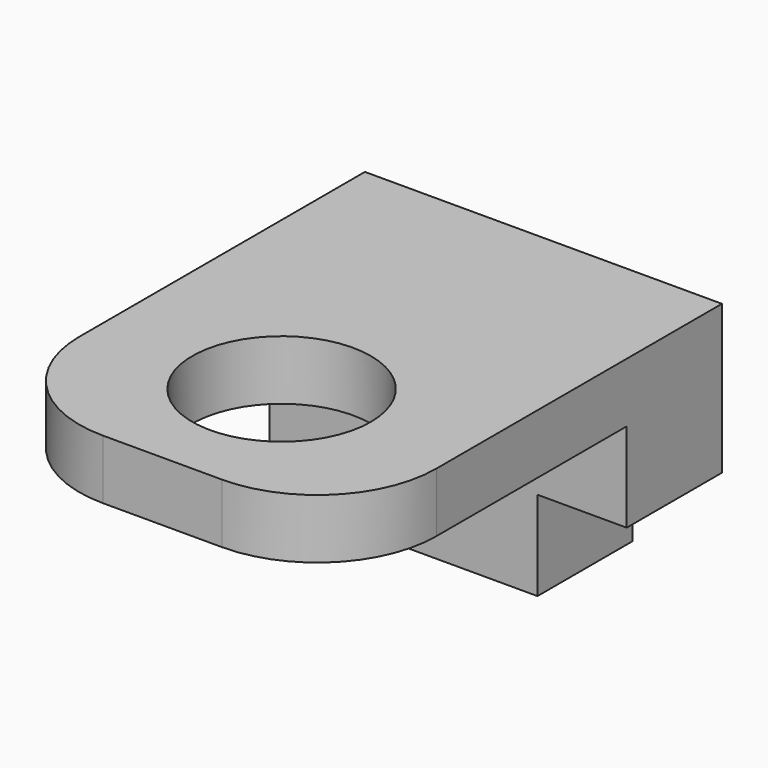
from build123d import *

# Parameters (mm, degrees)
F0_W     = 76.2
F0_H     = 101.6
F1_DEPTH = 12.7
F2_R     = 19.05
F3_DEPTH = 25.4
F4_W     = 76.2
F4_H     = 25.4
F5_DEPTH = 38.1
F6_W     = 19.05
F6_H     = 19.05
F7_DEPTH = 25.4
F8_R     = 25.4


with BuildPart() as f1:
    # F0 (on Top) → F1 (new body)
    with BuildSketch(Plane.XY):
        Rectangle(F0_W, F0_H)
    extrude(amount=F1_DEPTH)

    # F2 (on Top) → F3 (cut)
    with BuildSketch(Plane.XY):
        with Locations((0, -19.05)):
            Circle(F2_R)
    extrude(amount=F3_DEPTH, mode=Mode.SUBTRACT)

    # F4 (on Top) → F5 (join)
    with BuildSketch(Plane.XY):
        with Locations((0, 38.1)):
            Rectangle(F4_W, F4_H)
    extrude(amount=-F5_DEPTH)

    # F6 (on face) → F7 (cut)
    with BuildSketch(Plane.XZ.offset(-25.4)):
        with Locations((28.575, -28.575)):
            Rectangle(F6_W, F6_H)
    extrude(amount=-F7_DEPTH, mode=Mode.SUBTRACT)

    # F8
    f8_edges = [f1.edges().sort_by_distance(p)[0] for p in [
        (38.1, -50.8, 6.35),
        (-38.1, -50.8, 6.35),
    ]]
    fillet(f8_edges, radius=F8_R)


solid = f1.part
